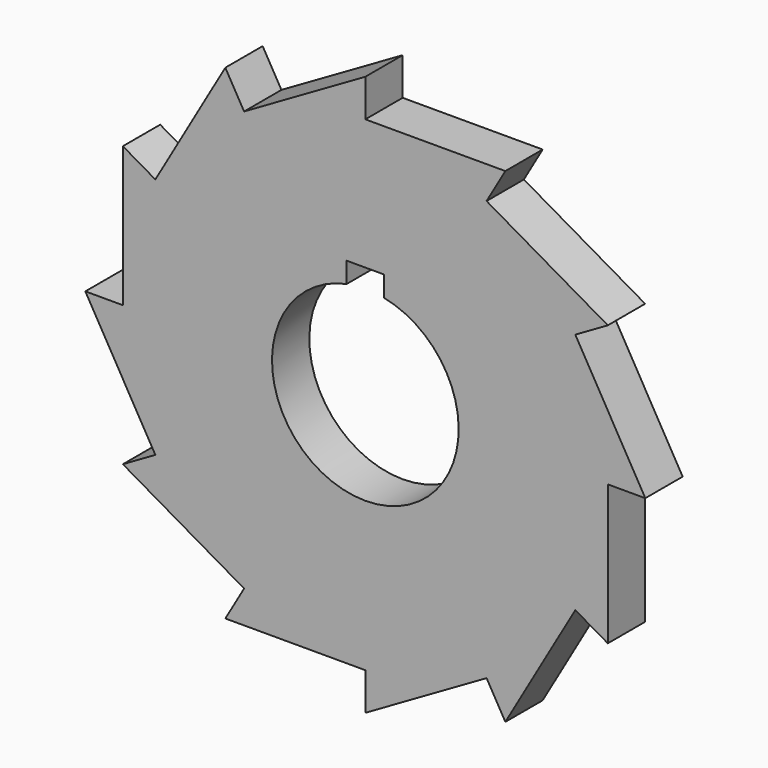
from build123d import *

# Parameters (mm, degrees)
F1_DEPTH = 5


with BuildPart() as f1:
    # F0 (on Front) → F1 (new body)
    with BuildSketch(Plane.XZ):
        Polygon((22.5, 12.990381), (25.980762, 15), (12.990381, 22.5), (15, 25.980762), (0, 25.980762), (0, 30), (-12.990381, 22.5), (-15, 25.980762), (-22.5, 12.990381), (-25.980762, 15), (-25.980762, 0), (-30, 0), (-22.5, -12.990381), (-25.980762, -15), (-12.990381, -22.5), (-15, -25.980762), (0, -25.980762), (0, -30), (12.990381, -22.5), (15, -25.980762), (22.5, -12.990381), (25.980762, -15), (25.980762, 0), (30, 0), align=None)
        with BuildLine():
            ThreePointArc((2, 9.797959), (0, -10), (-2, 9.797959))
            Line((-2, 9.797959), (-2, 12))
            Line((-2, 12), (0, 12))
            Line((0, 12), (2, 12))
            Line((2, 12), (2, 9.797959))
        make_face(mode=Mode.SUBTRACT)
    extrude(amount=F1_DEPTH)


solid = f1.part
